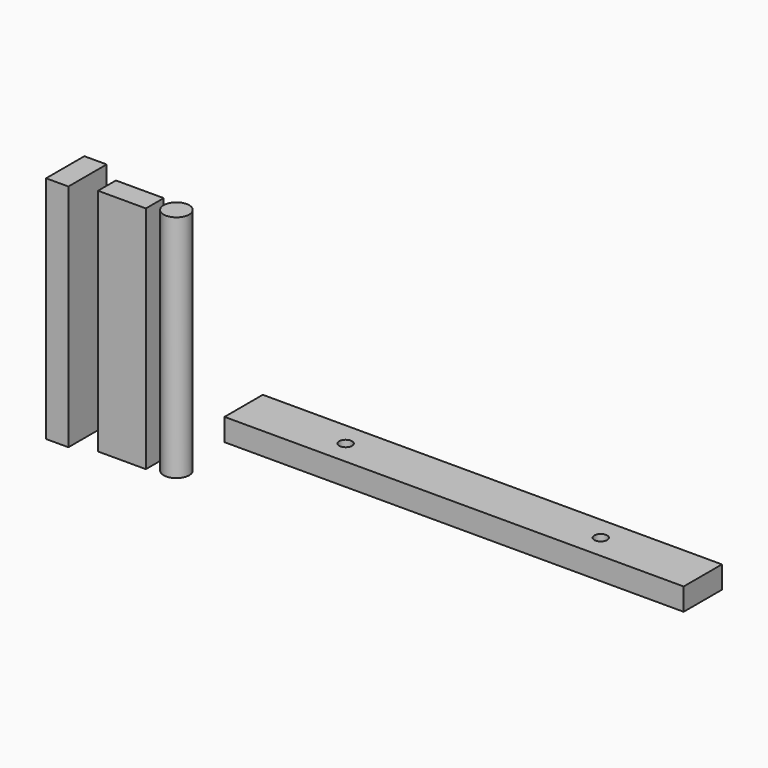
from build123d import *

# Parameters (mm, degrees)
F0_R     = 12.7
F1_DEPTH = 44.45
F2_W     = 95.25
F2_H     = 44.45
F3_DEPTH = 457.2
F4_W     = 44.45
F4_H     = 95.25
F5_DEPTH = 457.2
F6_R     = 25.4
F7_DEPTH = 457.2


with BuildPart() as f1:
    # F0 (on Top) → F1 (new body)
    with BuildSketch(Plane.XY):
        Polygon((987.761351, 140.459903), (73.361351, 140.459903), (73.361351, 92.834903), (73.361351, 45.209903), (987.761351, 45.209903), (987.761351, 92.834903), align=None)
        with BuildLine():
            ThreePointArc((289.261351, 92.834903), (276.561351, 80.134903), (263.861351, 92.834903))
            ThreePointArc((263.861351, 92.834903), (276.561351, 105.534903), (289.261351, 92.834903))
        make_face(mode=Mode.SUBTRACT)
        with Locations((784.561351, 92.834903)):
            Circle(F0_R, mode=Mode.SUBTRACT)
    extrude(amount=F1_DEPTH)


with BuildPart() as f3:
    # F2 (on Top) → F3 (new body)
    with BuildSketch(Plane.XY):
        with Locations((-13.060169, -79.907818)):
            Rectangle(F2_W, F2_H)
    extrude(amount=F3_DEPTH)


with BuildPart() as f5:
    # F4 (on Top) → F5 (new body)
    with BuildSketch(Plane.XY):
        with Locations((-127.822479, -72.166136)):
            Rectangle(F4_W, F4_H)
    extrude(amount=F5_DEPTH)


with BuildPart() as f7:
    # F6 (on Top) → F7 (new body)
    with BuildSketch(Plane.XY):
        with Locations((74.665189, -76.268211)):
            Circle(F6_R)
    extrude(amount=F7_DEPTH)


solid = Compound([f1.part, f3.part, f5.part, f7.part])
